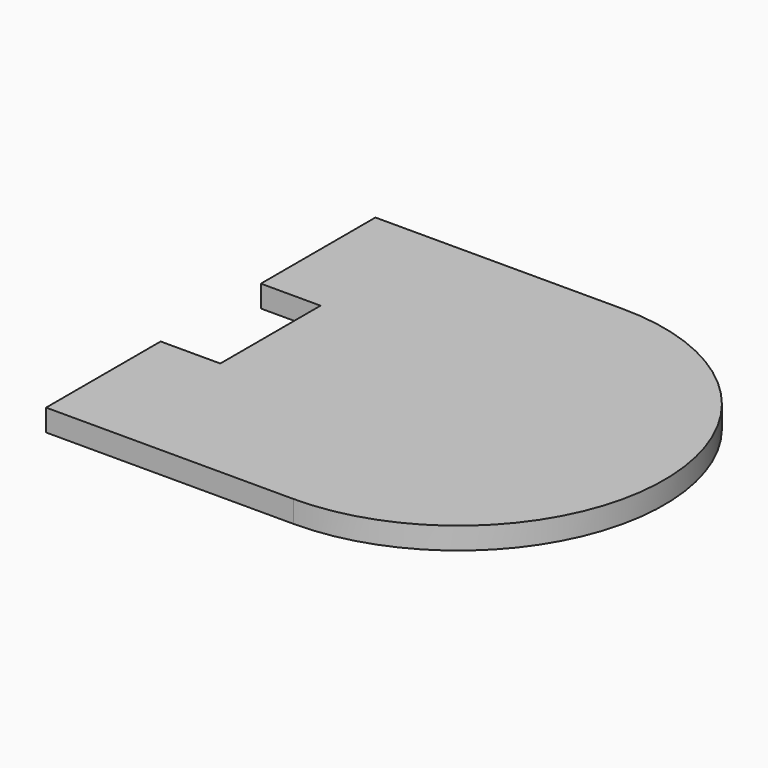
from build123d import *

# Parameters (mm, degrees)
F1_DEPTH = 7
F2_DEPTH = 5
F3_W     = 25.4
F3_H     = 7
F4_DEPTH = 19.05
F6_DEPTH = 7


with BuildPart() as f1:
    # F0 (on Top) → F1 (new body)
    with BuildSketch(Plane.XY):
        with BuildLine():
            ThreePointArc((20, 20), (40, 0), (20, -20))
            Line((20, -20), (-40, -20))
            Line((-40, -20), (-40, -45.4))
            Line((-40, -45.4), (20, -45.4))
            ThreePointArc((20, -45.4), (65.4, 0), (20, 45.4))
            Line((20, 45.4), (-40, 45.4))
            Line((-40, 45.4), (-40, 20))
            Line((-40, 20), (20, 20))
        make_face()
        with BuildLine():
            Line((-40, -20), (20, -20))
            ThreePointArc((20, -20), (40, 0), (20, 20))
            Line((20, 20), (-40, 20))
            Line((-40, 20), (-40, -20))
        make_face()
    extrude(amount=F1_DEPTH)

    # F0 (on Top) → F2 (cut)
    with BuildSketch(Plane.XY):
        with BuildLine():
            Line((-40, -20), (20, -20))
            ThreePointArc((20, -20), (40, 0), (20, 20))
            Line((20, 20), (-40, 20))
            Line((-40, 20), (-40, -20))
        make_face()
    extrude(amount=F2_DEPTH, mode=Mode.SUBTRACT)

    # F3 (on face) → F4 (join)
    with BuildSketch(Plane(origin=(-40, 0, 0), x_dir=(0, -1, 0), z_dir=(-1, 0, 0))):
        with Locations((-32.7, 3.5)):
            Rectangle(F3_W, F3_H)
        with Locations((32.7, 3.5)):
            Rectangle(F3_W, F3_H)
    extrude(amount=F4_DEPTH)

    # F5 (on face) → F6 (join, through all)
    with BuildSketch(Plane(origin=(0, 0, 0), x_dir=(1, 0, 0), z_dir=(0, 0, -1))):
        with BuildLine():
            Line((-59.05, -65.72), (20, -65.72))
            ThreePointArc((20, -65.72), (85.72, 0), (20, 65.72))
            Line((20, 65.72), (-59.05, 65.72))
            Line((-59.05, 65.72), (-59.05, 45.4))
            Line((-59.05, 45.4), (20, 45.4))
            ThreePointArc((20, 45.4), (65.4, 0), (20, -45.4))
            Line((20, -45.4), (-59.05, -45.4))
            Line((-59.05, -45.4), (-59.05, -65.72))
        make_face()
    extrude(amount=-F6_DEPTH)


solid = f1.part
